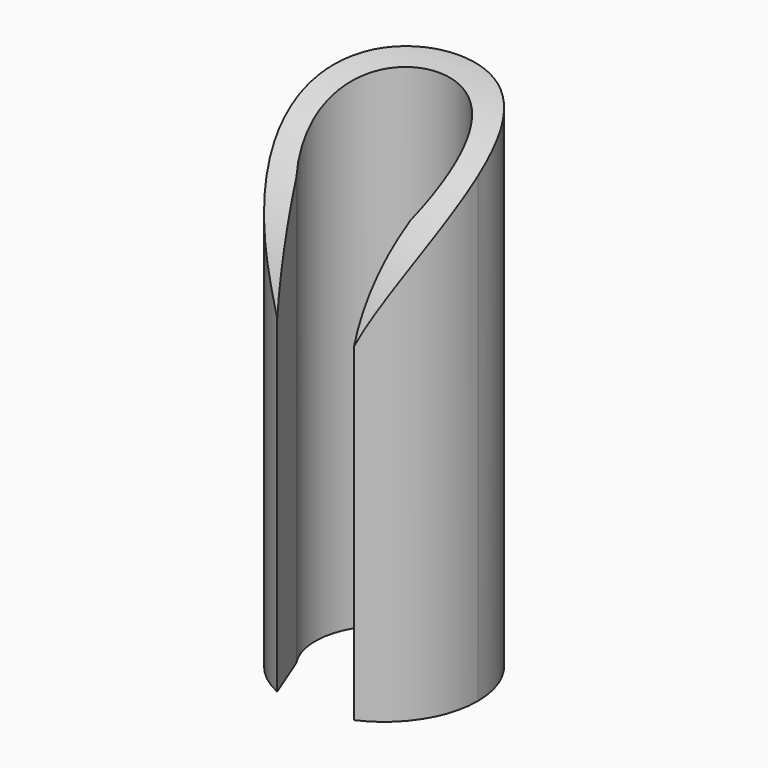
from build123d import *

# Parameters (mm, degrees)
F1_DEPTH = 20
F3_DEPTH = 12.7


with BuildPart() as f1:
    # F0 (on Top) → F1 (new body)
    with BuildSketch(Plane.XY):
        with BuildLine():
            ThreePointArc((-2.28661, -1.527716), (-0.798224, 2.631604), (2.75, 0))
            ThreePointArc((2.75, 0), (2.631604, -0.798224), (2.28661, -1.527716))
            Line((2.28661, -1.527716), (1.535176, -3.421364))
            ThreePointArc((1.535176, -3.421364), (3.147968, -2.037841), (3.75, 0))
            ThreePointArc((3.75, 0), (-2.037841, 3.147968), (-1.535176, -3.421364))
            Line((-1.535176, -3.421364), (-2.28661, -1.527716))
        make_face()
    extrude(amount=F1_DEPTH)

    # F2 (on Right) → F3 (cut, symmetric)
    with BuildSketch(Plane.YZ):
        with BuildLine():
            Line((-3.45, 20), (-3.45, 13))
            ThreePointArc((-3.45, 13), (-0.981115, 17.663433), (3.75, 20))
            Line((3.75, 20), (-3.45, 20))
        make_face()
    extrude(amount=F3_DEPTH, both=True, mode=Mode.SUBTRACT)


solid = f1.part
